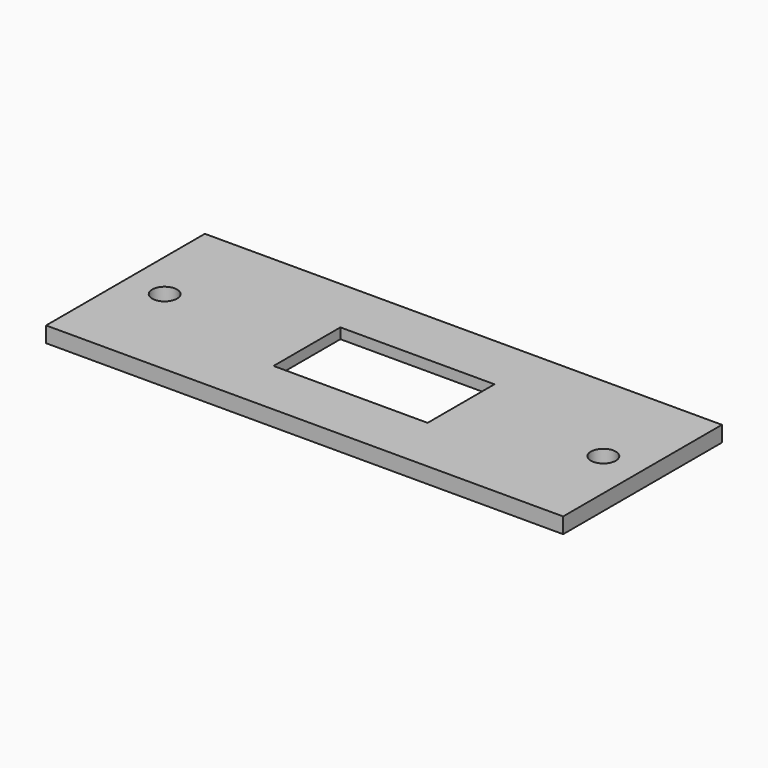
from build123d import *

# Parameters (mm, degrees)
F0_W     = 99
F0_H     = 38
F0_W_2   = 29.5
F0_H_2   = 16
F1_DEPTH = 3
F2_R     = 2.38125
F3_DEPTH = 3.001
F4_W     = 35.15
F4_H     = 22.55
F5_DEPTH = 1


with BuildPart() as f1:
    # F0 (on Top) → F1 (new body)
    with BuildSketch(Plane.XY):
        with Locations((49.5, 19)):
            Rectangle(F0_W, F0_H)
        with Locations((49.5, 19)):
            Rectangle(F0_W_2, F0_H_2, mode=Mode.SUBTRACT)
    extrude(amount=F1_DEPTH)

    # F2 (on face) → F3 (cut, through all)
    with BuildSketch(Plane.XY.offset(3)):
        with Locations((7.5, 19)):
            Circle(F2_R)
        with Locations((91.5, 19)):
            Circle(F2_R)
    extrude(amount=-F3_DEPTH, mode=Mode.SUBTRACT)

    # F4 (on face) → F5 (cut)
    with BuildSketch(Plane(origin=(0, 0, 0), x_dir=(1, 0, 0), z_dir=(0, 0, -1))):
        with Locations((49.5, -19)):
            Rectangle(F4_W, F4_H)
    extrude(amount=-F5_DEPTH, mode=Mode.SUBTRACT)


solid = f1.part
